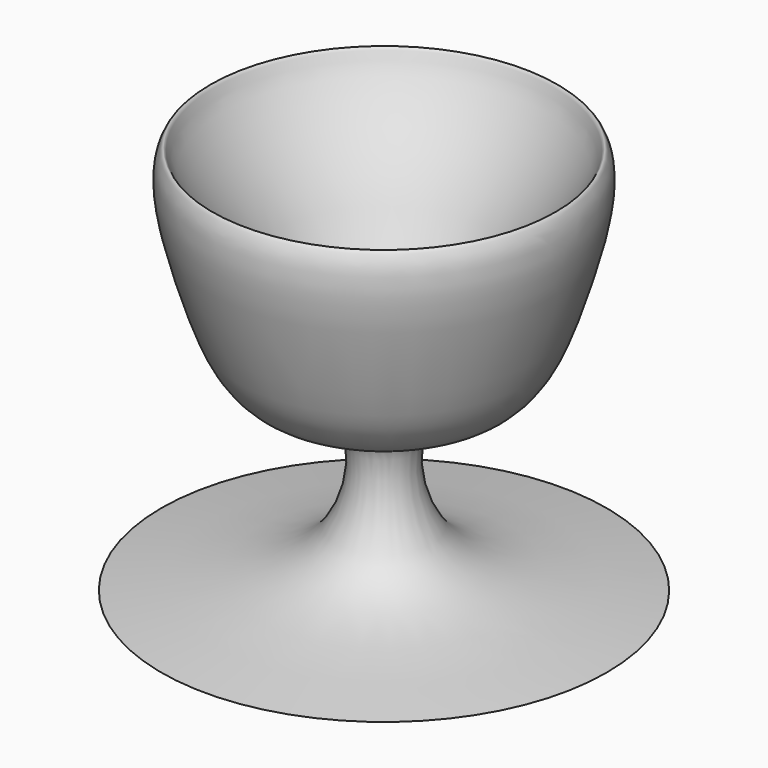
from build123d import *


with BuildPart() as f1:
    # F0 (on Front) → F1 (revolve)
    with BuildSketch(Plane.XZ):
        with BuildLine():
            Line((0, 0), (27.377328236, 0))
            add(Edge.make_bspline(
                [(27.377328236, 0), (17.147859757, 1.5467609561), (4.6321712954, 1.8956069041), (1.9891107622, 21.005843867), (15.0483690068, 20.0010165785), (19.745777402, 32.4880814242), (23.0083571393, 44.4784956735), (21.1099636653, 48.7515980915), (20.4203737249, 45.1246144521), (12.8911966765, 35.4821538764), (10.136368831, 25.0040123262), (3.8014939055, 25.3233425319), (0, 24.8749925981)],
                knots=[0, 0, 0, 0, 0.1511878973, 0.2629488121, 0.3604170197, 0.4739833453, 0.5900114497, 0.6420742902, 0.6877719658, 0.8026125348, 0.902923612, 1, 1, 1, 1], degree=3))
            Line((0, 24.8749925981), (0, 0))
        make_face()
    revolve(axis=Axis((0, 0, 12.437496299), (0, 0, -1)))


solid = f1.part
